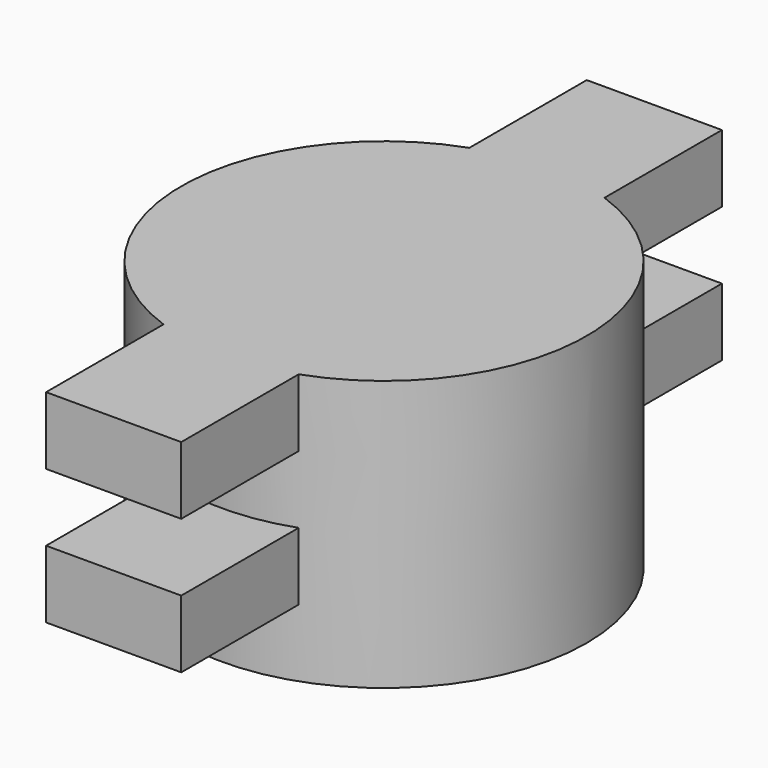
from build123d import *

# Parameters (mm, degrees)
SKETCH006_R      = 6
EXTRUDE006_DEPTH = 6
EXTRUDE007_DEPTH = 2
ARRAY001_Z_COUNT = 2
ARRAY001_Z_PITCH = 4


with BuildPart() as eixo2:
    # Sketch006 → Extrude006 (new body)
    with BuildSketch(Plane.XY):
        with Locations((60, 0)):
            Circle(SKETCH006_R)
    extrude(amount=EXTRUDE006_DEPTH)


with BuildPart() as obj1:
    # Sketch007 (on Face8 of Extrude002) → Extrude007 (new body)
    with BuildSketch(Plane.XY.offset(2)):
        with BuildLine():
            ThreePointArc((62, -5.6568542495), (66, 0), (62, 5.6568542495))
            Line((62, 5.6568542495), (62, 10))
            Line((58, 10), (62, 10))
            Line((58, 5.6568542495), (58, 10))
            ThreePointArc((58, 5.6568542495), (54, 0), (58, -5.6568542495))
            Line((58, -10), (58, -5.6568542495))
            Line((58, -10), (62, -10))
            Line((62, -5.6568542495), (62, -10))
        make_face()
    extrude(amount=EXTRUDE007_DEPTH)

    # Array001 Z: obj1 ×2


with BuildPart() as obj1_1:
    add(obj1.part)
    with Locations(*[(0, 0, i * ARRAY001_Z_PITCH) for i in range(1, ARRAY001_Z_COUNT)]):
        add(obj1.part)

    # Fusion: union Eixo2
    add(eixo2.part)


solid = obj1_1.part
